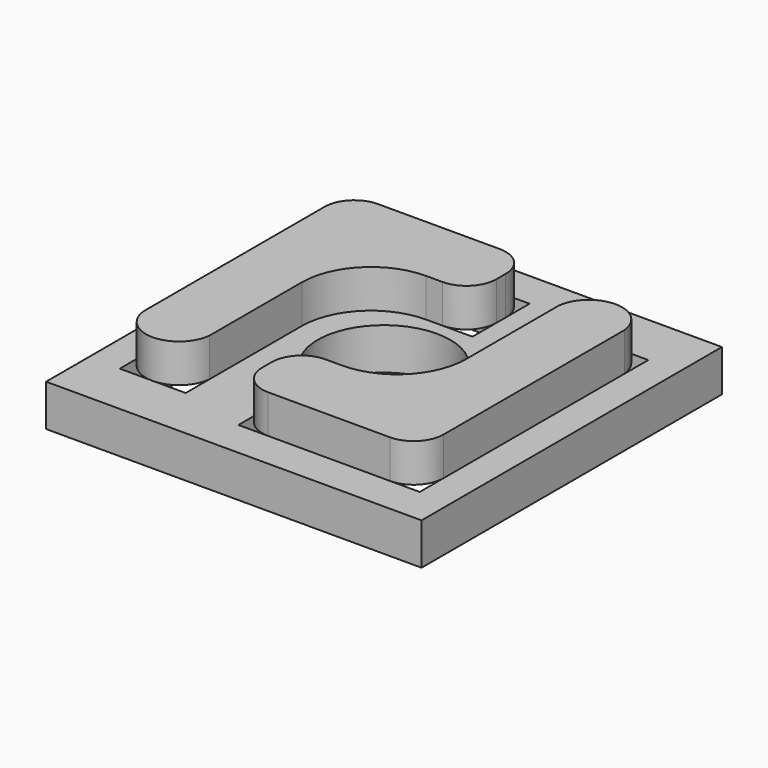
from build123d import *

# Parameters (mm, degrees)
F0_W     = 63
F0_H     = 63
F0_R     = 11.125
F1_DEPTH = 7
F3_DEPTH = 6.45


with BuildPart() as f1:
    # F0 (on Top) → F1 (new body)
    with BuildSketch(Plane.XY):
        Rectangle(F0_W, F0_H)
        Polygon((26.271708, -13.366307), (26.271708, -25.349895), (-4.148162, -25.349895), (-4.148162, -13.366307), (15.209938, -13.366307), (15.209938, 22.584449), (26.271708, 22.584449), align=None, mode=Mode.SUBTRACT)
        Polygon((-26.271708, -22.584449), (-26.271708, 13.366307), (-26.271708, 25.349895), (4.148162, 25.349895), (4.148162, 13.366307), (-15.209938, 13.366307), (-15.209938, -22.584449), align=None, mode=Mode.SUBTRACT)
        Circle(F0_R, mode=Mode.SUBTRACT)
    extrude(amount=F1_DEPTH)


with BuildPart() as f3:
    # F2 (on face) → F3 (new body)
    with BuildSketch(Plane.XY.offset(7)):
        with BuildLine():
            ThreePointArc((-21.271708, 25.349895), (-24.807242, 23.885428), (-26.271708, 20.349895))
            Line((-26.271708, 20.349895), (-26.271708, -17.584449))
            ThreePointArc((-26.271708, -17.584449), (-20.740823, -22.60987), (-15.209938, -17.584449))
            Line((-15.209938, -17.584449), (-15.209938, 1.778082))
            ThreePointArc((-15.209938, 1.778082), (-11.815826, 9.972195), (-3.621713, 13.366307))
            Line((-3.621713, 13.366307), (-0.851838, 13.366307))
            ThreePointArc((-0.851838, 13.366307), (2.683695, 14.830773), (4.148162, 18.366307))
            Line((4.148162, 18.366307), (4.148162, 20.349895))
            ThreePointArc((4.148162, 20.349895), (2.683695, 23.885428), (-0.851838, 25.349895))
            Line((-0.851838, 25.349895), (-21.271708, 25.349895))
        make_face()
        with BuildLine():
            Line((3.621713, -13.366307), (0.851838, -13.366307))
            ThreePointArc((0.851838, -13.366307), (-2.683695, -14.830773), (-4.148162, -18.366307))
            Line((-4.148162, -18.366307), (-4.148162, -20.349895))
            ThreePointArc((-4.148162, -20.349895), (-2.683695, -23.885428), (0.851838, -25.349895))
            Line((0.851838, -25.349895), (21.271708, -25.349895))
            ThreePointArc((21.271708, -25.349895), (24.807242, -23.885428), (26.271708, -20.349895))
            Line((26.271708, -20.349895), (26.271708, 17.584449))
            ThreePointArc((26.271708, 17.584449), (20.740823, 22.60987), (15.209938, 17.584449))
            Line((15.209938, 17.584449), (15.209938, -1.778082))
            ThreePointArc((15.209938, -1.778082), (11.815826, -9.972195), (3.621713, -13.366307))
        make_face()
    extrude(amount=F3_DEPTH)


solid = Compound([f1.part, f3.part])
